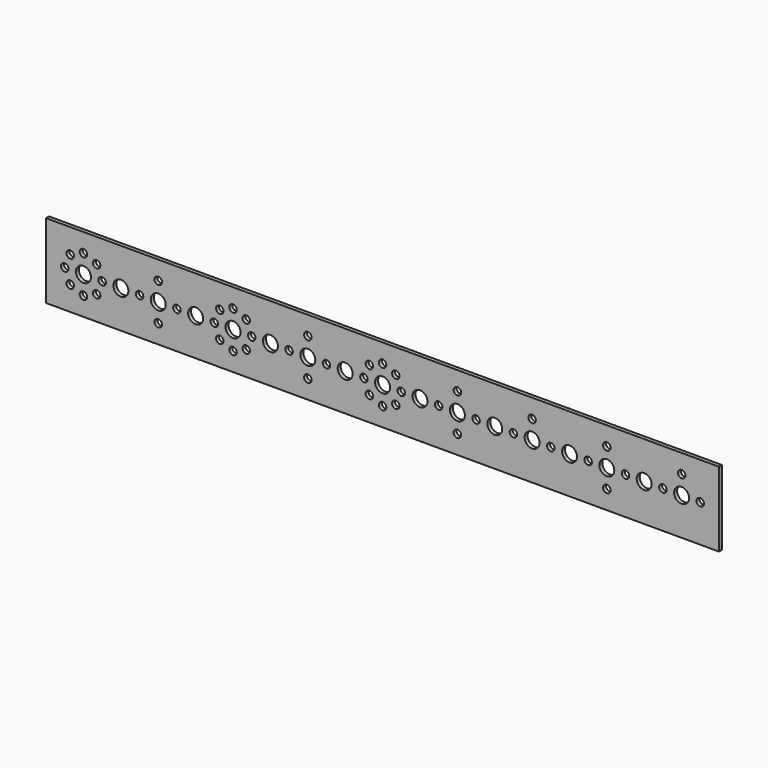
from build123d import *

# Parameters (mm, degrees)
F0_W     = 285.75
F0_H     = 31.75
F0_R     = 1.5864569713
F0_R_2   = 1.586899503
F0_R_3   = 1.5819512744
F0_R_4   = 1.5937887431
F0_R_5   = 1.5890160517
F0_R_6   = 1.5902887856
F0_R_7   = 1.5903045613
F0_R_8   = 1.5916317916
F0_R_9   = 3.1764507294
F0_R_10  = 1.5805950388
F0_R_11  = 3.1739361584
F0_R_12  = 1.5864288434
F0_R_13  = 3.1738511752
F0_R_14  = 1.5881643895
F0_R_15  = 1.5816690835
F0_R_16  = 1.5876839815
F0_R_17  = 1.5896769037
F0_R_18  = 3.179191961
F0_R_19  = 1.5871380456
F0_R_20  = 3.1742760912
F0_R_21  = 1.5863757581
F0_R_22  = 3.1737219542
F0_R_23  = 1.5899445862
F0_R_24  = 3.178441897
F0_R_25  = 1.5861913562
F0_R_26  = 1.5855158629
F0_R_27  = 1.5932524318
F0_R_28  = 1.5932021287
F0_R_29  = 1.5925505972
F0_R_30  = 3.1710229814
F0_R_31  = 1.587189734
F0_R_32  = 3.174379468
F0_R_33  = 1.5930868685
F0_R_34  = 3.1741075218
F0_R_35  = 1.5927180648
F0_R_36  = 3.1699091196
F0_R_37  = 1.5849508345
F0_R_38  = 1.5913322568
F0_R_39  = 3.170453012
F0_R_40  = 1.5831664205
F0_R_41  = 3.1707659364
F0_R_42  = 1.589089632
F0_R_43  = 3.1702965498
F0_R_44  = 1.5927776694
F0_R_45  = 3.1687393785
F0_R_46  = 1.5826523304
F0_R_47  = 1.5879751285
F0_R_48  = 1.5841407752
F0_R_49  = 1.583700919
F0_R_50  = 1.5827693871
F0_R_51  = 1.5843354194
F0_R_52  = 1.5863459475
F0_R_53  = 1.589416453
F0_R_54  = 1.5875077881
F0_R_55  = 1.5861476827
F0_R_56  = 1.5892925274
F0_R_57  = 1.5870624762
F0_R_58  = 1.5871828381
F0_R_59  = 1.5926541335
F0_R_60  = 1.589516644
F0_R_61  = 1.5834852409
F1_DEPTH = 1.5875


with BuildPart() as f1:
    # F0 (on Front) → F1 (new body)
    with BuildSketch(Plane.XZ):
        with Locations((70.5032497835, -1.0685799643)):
            Rectangle(F0_W, F0_H)
        with Locations((-56.5036865693, -9.0187799643)):
            Circle(F0_R, mode=Mode.SUBTRACT)
        with Locations((-24.7371103615, -9.0187799643)):
            Circle(F0_R_2, mode=Mode.SUBTRACT)
        with Locations((7.0225620875, -9.0187799643)):
            Circle(F0_R_3, mode=Mode.SUBTRACT)
        with Locations((38.780996576, -9.0187799643)):
            Circle(F0_R_4, mode=Mode.SUBTRACT)
        with Locations((-62.1178604637, -6.6818154435)):
            Circle(F0_R_5, mode=Mode.SUBTRACT)
        with Locations((-50.889512675, -6.6818154435)):
            Circle(F0_R_6, mode=Mode.SUBTRACT)
        with Locations((-64.4426639002, -1.0685799643)):
            Circle(F0_R_7, mode=Mode.SUBTRACT)
        with BuildLine():
            ThreePointArc((-59.6786865693, -1.0685799643), (-56.5036865693, 2.1064200357), (-53.3286865693, -1.0685799643))
            ThreePointArc((-53.3286865693, -1.0685799643), (-56.5036865693, -4.2435799643), (-59.6786865693, -1.0685799643))
        make_face(mode=Mode.SUBTRACT)
        with Locations((-48.5633820081, -1.0685799643)):
            Circle(F0_R_8, mode=Mode.SUBTRACT)
        with Locations((-40.6141579151, -1.0685799643)):
            Circle(F0_R_9, mode=Mode.SUBTRACT)
        with Locations((-32.6759899035, -1.0685799643)):
            Circle(F0_R_10, mode=Mode.SUBTRACT)
        with Locations((-24.7371103615, -1.0685799643)):
            Circle(F0_R_11, mode=Mode.SUBTRACT)
        with Locations((-16.8038876727, -1.0685799643)):
            Circle(F0_R_12, mode=Mode.SUBTRACT)
        with Locations((-8.8644300122, -1.0685799643)):
            Circle(F0_R_13, mode=Mode.SUBTRACT)
        with Locations((1.4070435128, -6.6804702161)):
            Circle(F0_R_14, mode=Mode.SUBTRACT)
        with Locations((12.6380806622, -6.6804702161)):
            Circle(F0_R_15, mode=Mode.SUBTRACT)
        with Locations((64.9241552354, -6.676815734)):
            Circle(F0_R_16, mode=Mode.SUBTRACT)
        with Locations((-0.9215481259, -1.0685799643)):
            Circle(F0_R_17, mode=Mode.SUBTRACT)
        with Locations((7.0225620875, -1.0685799643)):
            Circle(F0_R_18, mode=Mode.SUBTRACT)
        with Locations((14.9631672539, -1.0685799643)):
            Circle(F0_R_19, mode=Mode.SUBTRACT)
        with Locations((22.8988584131, -1.0685799643)):
            Circle(F0_R_20, mode=Mode.SUBTRACT)
        with Locations((30.8337863535, -1.0685799643)):
            Circle(F0_R_21, mode=Mode.SUBTRACT)
        with Locations((38.780996576, -1.0685799643)):
            Circle(F0_R_22, mode=Mode.SUBTRACT)
        with Locations((46.707848087, -1.0685799643)):
            Circle(F0_R_23, mode=Mode.SUBTRACT)
        with Locations((54.6561274678, -1.0685799643)):
            Circle(F0_R_24, mode=Mode.SUBTRACT)
        with Locations((62.6077577472, -1.0685799643)):
            Circle(F0_R_25, mode=Mode.SUBTRACT)
        with Locations((70.5329962075, -9.0187799643)):
            Circle(F0_R_26, mode=Mode.SUBTRACT)
        with Locations((102.2990457714, -9.0187799643)):
            Circle(F0_R_27, mode=Mode.SUBTRACT)
        with Locations((165.7646074891, -9.0187799643)):
            Circle(F0_R_28, mode=Mode.SUBTRACT)
        with Locations((76.1557668447, -6.676815734)):
            Circle(F0_R_29, mode=Mode.SUBTRACT)
        with Locations((70.5329962075, -1.0685799643)):
            Circle(F0_R_30, mode=Mode.SUBTRACT)
        with Locations((78.4771665931, -1.0685799643)):
            Circle(F0_R_31, mode=Mode.SUBTRACT)
        with Locations((86.413115263, -1.0685799643)):
            Circle(F0_R_32, mode=Mode.SUBTRACT)
        with Locations((94.3456701934, -1.0685799643)):
            Circle(F0_R_33, mode=Mode.SUBTRACT)
        with Locations((102.2990457714, -1.0685799643)):
            Circle(F0_R_34, mode=Mode.SUBTRACT)
        with Locations((110.2501451969, -1.0685799643)):
            Circle(F0_R_35, mode=Mode.SUBTRACT)
        with Locations((118.1826815009, -1.0685799643)):
            Circle(F0_R_36, mode=Mode.SUBTRACT)
        with Locations((126.1074505746, -1.0685799643)):
            Circle(F0_R_37, mode=Mode.SUBTRACT)
        with Locations((134.0322196484, -1.0685799643)):
            Circle(F0_R_36, mode=Mode.SUBTRACT)
        with Locations((141.9742777944, -1.0685799643)):
            Circle(F0_R_38, mode=Mode.SUBTRACT)
        with Locations((149.9187275767, -1.0685799643)):
            Circle(F0_R_39, mode=Mode.SUBTRACT)
        with Locations((157.8451916575, -1.0685799643)):
            Circle(F0_R_40, mode=Mode.SUBTRACT)
        with Locations((165.7646074891, -1.0685799643)):
            Circle(F0_R_41, mode=Mode.SUBTRACT)
        with Locations((173.7026423216, -1.0685799643)):
            Circle(F0_R_42, mode=Mode.SUBTRACT)
        with Locations((181.6402077675, -1.0685799643)):
            Circle(F0_R_43, mode=Mode.SUBTRACT)
        with Locations((189.5888373256, -1.0685799643)):
            Circle(F0_R_44, mode=Mode.SUBTRACT)
        with Locations((197.5269839168, -1.0685799643)):
            Circle(F0_R_45, mode=Mode.SUBTRACT)
        with Locations((205.4483443499, -1.0685799643)):
            Circle(F0_R_46, mode=Mode.SUBTRACT)
        with Locations((-62.1173912757, 4.545124742)):
            Circle(F0_R_47, mode=Mode.SUBTRACT)
        with Locations((-50.889512675, 4.5446555149)):
            Circle(F0_R_48, mode=Mode.SUBTRACT)
        with Locations((1.4070435128, 4.5433102875)):
            Circle(F0_R_49, mode=Mode.SUBTRACT)
        with Locations((12.6380806622, 4.5433102875)):
            Circle(F0_R_50, mode=Mode.SUBTRACT)
        with Locations((64.9241552354, 4.549984266)):
            Circle(F0_R_51, mode=Mode.SUBTRACT)
        with Locations((-56.5036865693, 6.8703973666)):
            Circle(F0_R_52, mode=Mode.SUBTRACT)
        with Locations((-24.7371103615, 6.8703973666)):
            Circle(F0_R_53, mode=Mode.SUBTRACT)
        with Locations((7.0225620875, 6.8703973666)):
            Circle(F0_R_54, mode=Mode.SUBTRACT)
        with Locations((38.780996576, 6.8703973666)):
            Circle(F0_R_55, mode=Mode.SUBTRACT)
        with Locations((76.1557668447, 4.549984266)):
            Circle(F0_R_56, mode=Mode.SUBTRACT)
        with Locations((70.5329962075, 6.8703973666)):
            Circle(F0_R_57, mode=Mode.SUBTRACT)
        with Locations((102.2990457714, 6.8703973666)):
            Circle(F0_R_58, mode=Mode.SUBTRACT)
        with Locations((134.0322196484, 6.8703973666)):
            Circle(F0_R_59, mode=Mode.SUBTRACT)
        with Locations((165.7646074891, 6.8703973666)):
            Circle(F0_R_60, mode=Mode.SUBTRACT)
        with Locations((197.5269839168, 6.8703973666)):
            Circle(F0_R_61, mode=Mode.SUBTRACT)
    extrude(amount=F1_DEPTH)


solid = f1.part
